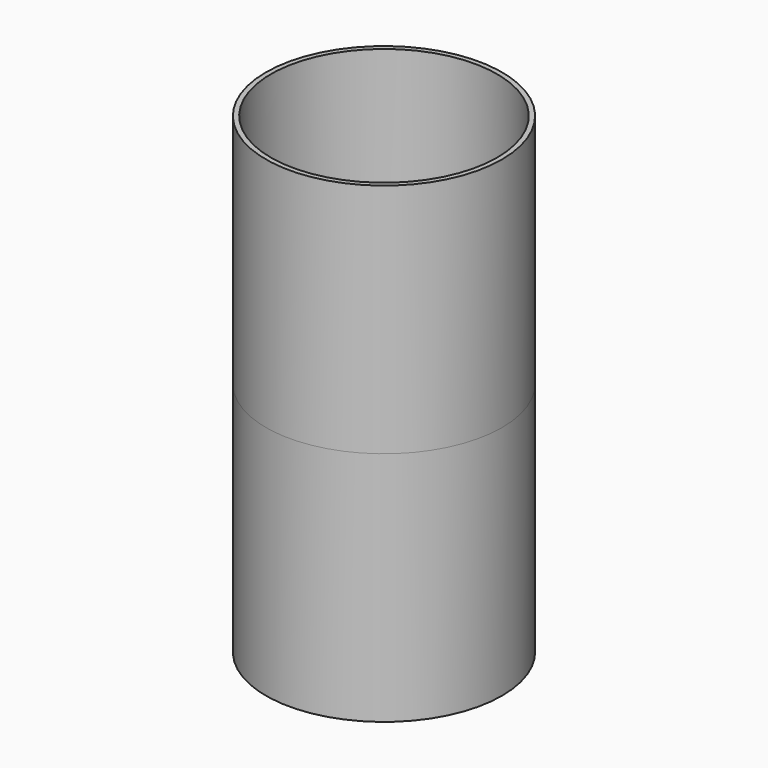
from build123d import *

# Parameters (mm, degrees)
F0_R     = 152.4
F0_R_2   = 146.05
F1_DEPTH = 304.8


with BuildPart() as f1:
    # F0 (on Top) → F1 (new body)
    with BuildSketch(Plane.XY):
        Circle(F0_R)
        Circle(F0_R_2, mode=Mode.SUBTRACT)
    extrude(amount=-F1_DEPTH)


with BuildPart() as f2_1:
    # F2: copy of F1
    add(f1.part.moved(Location((0, 0, -304.8))))


solid = Compound([f1.part, f2_1.part])
